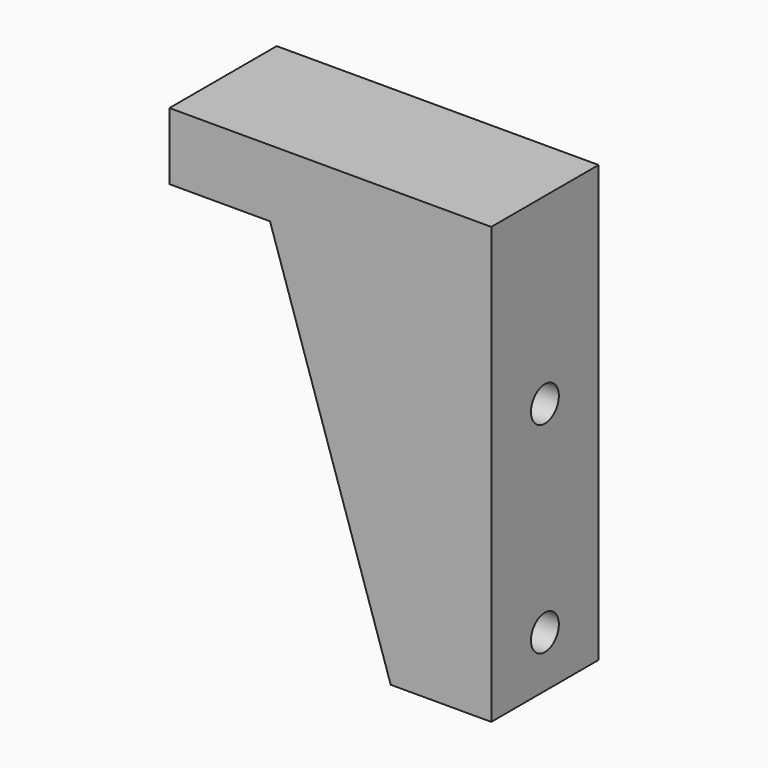
from build123d import *

# Parameters (mm, degrees)
F1_DEPTH = 20
F3_D     = 5.2
F3_DEPTH = 10
F3_TIP   = 1.5622376095


with BuildPart() as f1:
    # F0 (on Front) → F1 (new body)
    with BuildSketch(Plane.XZ):
        Polygon((0, -65), (0, 0), (-48, 0), (-48, -10), (-33, -10), (-15, -65), align=None)
    extrude(amount=F1_DEPTH)

    # F3
    with Locations(Plane.YZ):
        with Locations((-10, -27.3), (-10, -57.3)):
            Hole(F3_D / 2, depth=F3_DEPTH)
            with Locations((0, 0, -(F3_DEPTH + F3_TIP / 2))):  # 118° drill point
                Cone(0, F3_D / 2, F3_TIP, mode=Mode.SUBTRACT)


solid = f1.part
